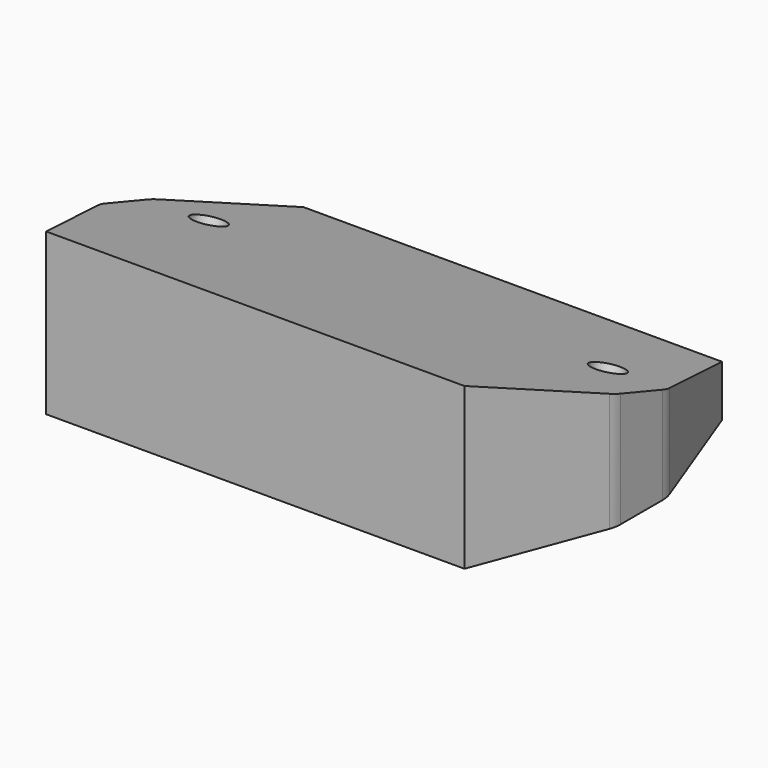
from build123d import *

# Parameters (mm, degrees)
F1_DEPTH       = 80
F3_DEPTH       = 25
F6_D           = 5
F6_START       = 3.8023749
F6_CBORE_D     = 9
F6_CBORE_DEPTH = 11
F7_W           = 58.0699953184
F7_H           = 13
F8_DEPTH       = 6


with BuildPart() as f1:
    # F0 (on Right) → F1 (new body)
    with BuildSketch(Plane.YZ):
        Polygon((0, 25), (0, 0), (50, 0), (50, 8), align=None)
    extrude(amount=F1_DEPTH)

    # F2 (on face) → F3 (cut)
    with BuildSketch(Plane(origin=(0, 0, 0), x_dir=(1, 0, 0), z_dir=(0, 0, -1))):
        with BuildLine():
            Line((0.3183541251, -19.1510552385), (7.5, 0))
            Line((7.5, 0), (0, 0))
            Line((0, 0), (0, -20.9066724808))
            ThreePointArc((0, -20.9066724808), (0.0802322527, -20.0145484353), (0.3183541251, -19.1510552385))
        make_face()
        with BuildLine():
            ThreePointArc((0.3183541122, -30.8489442991), (0.0802322494, -29.9854511186), (0, -29.0933270912))
            Line((0, -29.0933270912), (0, -50))
            Line((0, -50), (7.5, -50))
            Line((7.5, -50), (0.3183541122, -30.8489442991))
        make_face()
        with BuildLine():
            Line((80, -50), (80, -29.0933270912))
            ThreePointArc((80, -29.0933270912), (79.9197677506, -29.9854511186), (79.6816458878, -30.8489442991))
            Line((79.6816458878, -30.8489442991), (72.5, -50))
            Line((72.5, -50), (80, -50))
        make_face()
        with BuildLine():
            Line((80, 0), (72.5, 0))
            Line((72.5, 0), (79.6816458749, -19.1510552385))
            ThreePointArc((79.6816458749, -19.1510552385), (79.9197677473, -20.0145484353), (80, -20.9066724808))
            Line((80, -20.9066724808), (80, 0))
        make_face()
    extrude(amount=-F3_DEPTH, mode=Mode.SUBTRACT)

    # F6 (through all)
    # its depths count from where the whole tool has entered the part; down to there all is cleared
    with Locations(Plane(origin=(0, 1.8249691595, 5.3675563516), x_dir=(1, 0, 0), z_dir=(0, -0.3219027332, -0.9467727448)).offset(-F6_START)):
        with Locations((71, -23.3579222113), (9, -23.3579222113)):
            CounterBoreHole(F6_D / 2, F6_CBORE_D / 2, F6_CBORE_DEPTH)

    # F7 (on face) → F8 (cut)
    with BuildSketch(Plane(origin=(0, 0, 0), x_dir=(1, 0, 0), z_dir=(0, 0, -1))):
        with Locations((40, -38.5)):
            Rectangle(F7_W, F7_H)
    extrude(amount=-F8_DEPTH, mode=Mode.SUBTRACT)


solid = f1.part
